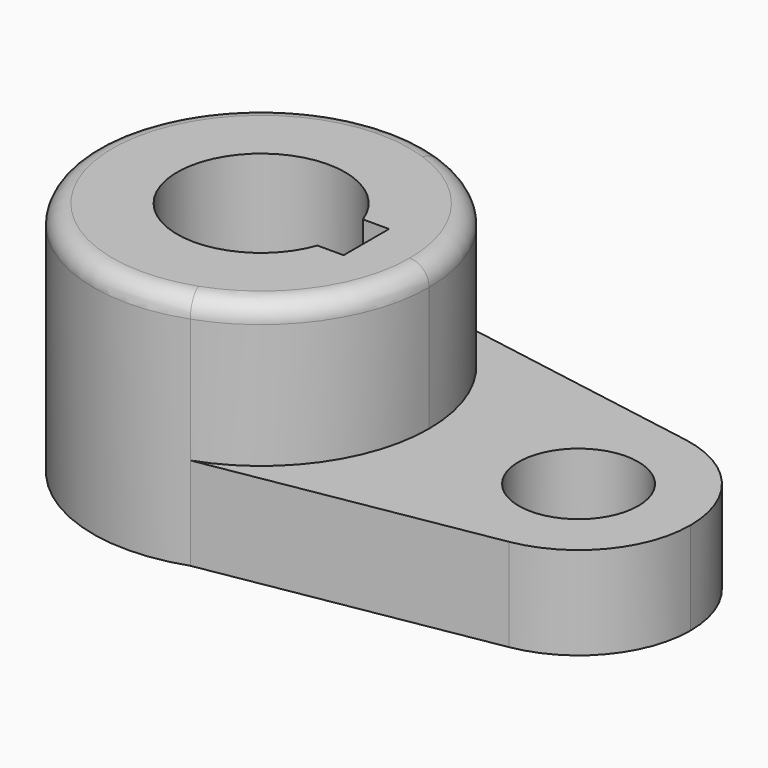
from build123d import *

# Parameters (mm, degrees)
F1_DEPTH = 40.2336
F2_R     = 10.16
F3_DEPTH = 15.7734
F5_DEPTH = 40.2346
F6_R     = 3.302


with BuildPart() as f1:
    # F0 (on Top) → F1 (new body)
    with BuildSketch(Plane.XY):
        with BuildLine():
            ThreePointArc((9.512184, -26.945296), (23.327466, -16.503332), (28.575, 0))
            ThreePointArc((28.575, 0), (23.327466, 16.503332), (9.512184, 26.945296))
            ThreePointArc((9.512184, 26.945296), (-28.575, 0), (9.512184, -26.945296))
        make_face()
    extrude(amount=F1_DEPTH)

    # F2 (on Top) + F0 (on Top) → F3 (join)
    with BuildSketch(Plane.XY):
        with BuildLine():
            ThreePointArc((57.191927, -18.776418), (68.538395, -12.280473), (73.025, 0))
            ThreePointArc((73.025, 0), (68.538395, 12.280473), (57.191927, 18.776418))
            ThreePointArc((57.191927, 18.776418), (34.925, 0), (57.191927, -18.776418))
        make_face()
        with Locations((53.975, 0)):
            Circle(F2_R, mode=Mode.SUBTRACT)
    with BuildSketch(Plane.XY):
        with BuildLine():
            ThreePointArc((9.512184, 26.945296), (23.327466, 16.503332), (28.575, 0))
            ThreePointArc((28.575, 0), (23.327466, -16.503332), (9.512184, -26.945296))
            Line((9.512184, -26.945296), (57.191927, -18.776418))
            ThreePointArc((57.191927, -18.776418), (34.925, 0), (57.191927, 18.776418))
            Line((57.191927, 18.776418), (9.512184, 26.945296))
        make_face()
    extrude(amount=F3_DEPTH)

    # F4 (on face) → F5 (cut, through all)
    with BuildSketch(Plane.XY.offset(40.2336)):
        with BuildLine():
            Line((17.889793, 4.826), (13.447765, 4.826))
            ThreePointArc((13.447765, 4.826), (-14.2875, 0), (13.447765, -4.826))
            Line((13.447765, -4.826), (17.889793, -4.826))
            Line((17.889793, -4.826), (17.889793, 4.826))
        make_face()
    extrude(amount=-F5_DEPTH, mode=Mode.SUBTRACT)

    # F6
    f6_edges = [f1.edges().sort_by_distance(p)[0] for p in [
        (-9.512184, 26.945296, 40.2336),
    ]]
    fillet(f6_edges, radius=F6_R)


solid = f1.part
